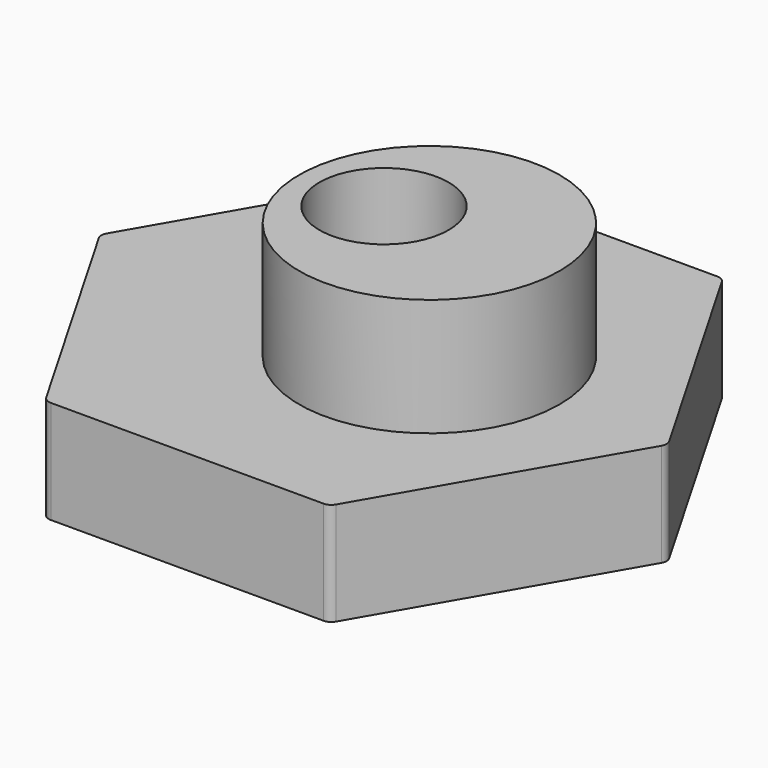
from build123d import *

# Parameters (mm, degrees)
F1_DEPTH  = 4.0132
F2_R      = 2.5146
F3_DEPTH  = 25.4
F4_R      = 5.0673
F4_R_2    = 2.5146
F5_DEPTH  = 4.572
F6_R      = 7.1374
F7_DEPTH  = 1.0922
F8_W      = 2.794
F8_H      = 0.4572
F8_W_2    = 0.4572
F8_H_2    = 2.794
F9_DEPTH  = 0.381
F10_R     = 0.381
F11_W     = 1.778
F11_H     = 0.3556
F12_DEPTH = 0.254


with BuildPart() as f1:
    # F0 (on Top) → F1 (new body)
    with BuildSketch(Plane.XY):
        Polygon((-7.126325, 12.257675), (-18.183506, 12.257675), (-23.712097, 2.681875), (-18.183506, -6.893925), (-7.126325, -6.893925), (-1.597734, 2.681875), align=None)
    extrude(amount=F1_DEPTH)

    # F2 (on face) → F3 (cut)
    with BuildSketch(Plane.XY.offset(4.0132)):
        with Locations((-12.654915, 2.681875)):
            Circle(F2_R)
    extrude(amount=-F3_DEPTH, mode=Mode.SUBTRACT)

    # F4 (on face) → F5 (join)
    with BuildSketch(Plane.XY.offset(4.0132)):
        with Locations((-10.889615, 2.681875)):
            Circle(F4_R)
        with Locations((-12.654915, 2.681875)):
            Circle(F4_R_2, mode=Mode.SUBTRACT)
    extrude(amount=F5_DEPTH)

    # F6 (on face) → F7 (cut)
    with BuildSketch(Plane(origin=(0, 0, 0), x_dir=(1, 0, 0), z_dir=(0, 0, -1))):
        with Locations((-12.654915, -2.681875)):
            Circle(F6_R)
    extrude(amount=-F7_DEPTH, mode=Mode.SUBTRACT)

    # F8 (on face) → F9 (join)
    with BuildSketch(Plane(origin=(0, 0, 1.0922), x_dir=(1, 0, 0), z_dir=(0, 0, -1))):
        with Locations((-7.549515, -2.681875)):
            Rectangle(F8_W, F8_H)
        Polygon((-9.132042, -1.50126), (-9.01371, -1.942881), (-6.314913, -1.21974), (-6.433245, -0.778119), align=None)
        Polygon((-9.557647, -0.629701), (-9.329047, -1.025648), (-6.909372, 0.371352), (-7.137972, 0.767299), align=None)
        Polygon((-10.194325, 0.102005), (-9.871036, -0.221285), (-7.89538, 1.754372), (-8.218669, 2.077661), align=None)
        Polygon((-10.998689, 0.643994), (-10.602742, 0.415394), (-9.205742, 2.835069), (-9.601689, 3.063669), align=None)
        Polygon((-11.915922, 0.959331), (-11.4743, 0.840999), (-10.75116, 3.539795), (-11.192781, 3.658127), align=None)
        with Locations((-12.654915, 2.423525)):
            Rectangle(F8_W_2, F8_H_2)
        Polygon((-13.835531, 0.840999), (-13.393909, 0.959331), (-14.11705, 3.658127), (-14.558671, 3.539795), align=None)
        Polygon((-14.707089, 0.415394), (-14.311142, 0.643994), (-15.708142, 3.063669), (-16.104089, 2.835069), align=None)
        Polygon((-15.438795, -0.221285), (-15.115506, 0.102005), (-17.091162, 2.077661), (-17.414451, 1.754372), align=None)
        Polygon((-15.980784, -1.025648), (-15.752184, -0.629701), (-18.171859, 0.767299), (-18.400459, 0.371352), align=None)
        Polygon((-16.296121, -1.942881), (-16.177789, -1.50126), (-18.876586, -0.778119), (-18.994918, -1.21974), align=None)
        with Locations((-17.760315, -2.681875)):
            Rectangle(F8_W, F8_H)
        Polygon((-16.177789, -3.86249), (-16.296121, -3.420869), (-18.994918, -4.144009), (-18.876586, -4.58563), align=None)
        Polygon((-15.752184, -4.734048), (-15.980784, -4.338101), (-18.400459, -5.735101), (-18.171859, -6.131048), align=None)
        Polygon((-15.115506, -5.465754), (-15.438795, -5.142465), (-17.414451, -7.118121), (-17.091162, -7.44141), align=None)
        Polygon((-14.311142, -6.007743), (-14.707089, -5.779143), (-16.104089, -8.198818), (-15.708142, -8.427418), align=None)
        Polygon((-13.393909, -6.32308), (-13.835531, -6.204748), (-14.558671, -8.903545), (-14.11705, -9.021877), align=None)
        with Locations((-12.654915, -7.787275)):
            Rectangle(F8_W_2, F8_H_2)
        Polygon((-11.4743, -6.204748), (-11.915922, -6.32308), (-11.192781, -9.021877), (-10.75116, -8.903545), align=None)
        Polygon((-10.602742, -5.779143), (-10.998689, -6.007743), (-9.601689, -8.427418), (-9.205742, -8.198818), align=None)
        Polygon((-9.871036, -5.142465), (-10.194325, -5.465754), (-8.218669, -7.44141), (-7.89538, -7.118121), align=None)
        Polygon((-9.329047, -4.338101), (-9.557647, -4.734048), (-7.137972, -6.131048), (-6.909372, -5.735101), align=None)
        Polygon((-9.01371, -3.420869), (-9.132042, -3.86249), (-6.433245, -4.58563), (-6.314913, -4.144009), align=None)
    extrude(amount=F9_DEPTH)

    # F10
    f10_edges = [f1.edges().sort_by_distance(p)[0] for p in [
        (-7.126325, 12.257675, 2.0066),
        (-18.183506, 12.257675, 2.0066),
        (-23.712097, 2.681875, 2.0066),
        (-18.183506, -6.893925, 2.0066),
        (-7.126325, -6.893925, 2.0066),
        (-1.597734, 2.681875, 2.0066),
    ]]
    fillet(f10_edges, radius=F10_R)

    # F11 (on face) → F12 (cut)
    with BuildSketch(Plane(origin=(0, 0, 0), x_dir=(1, 0, 0), z_dir=(0, 0, -1))):
        with Locations((-21.925915, -2.681875)):
            Rectangle(F11_W, F11_H)
    extrude(amount=-F12_DEPTH, mode=Mode.SUBTRACT)


solid = f1.part
